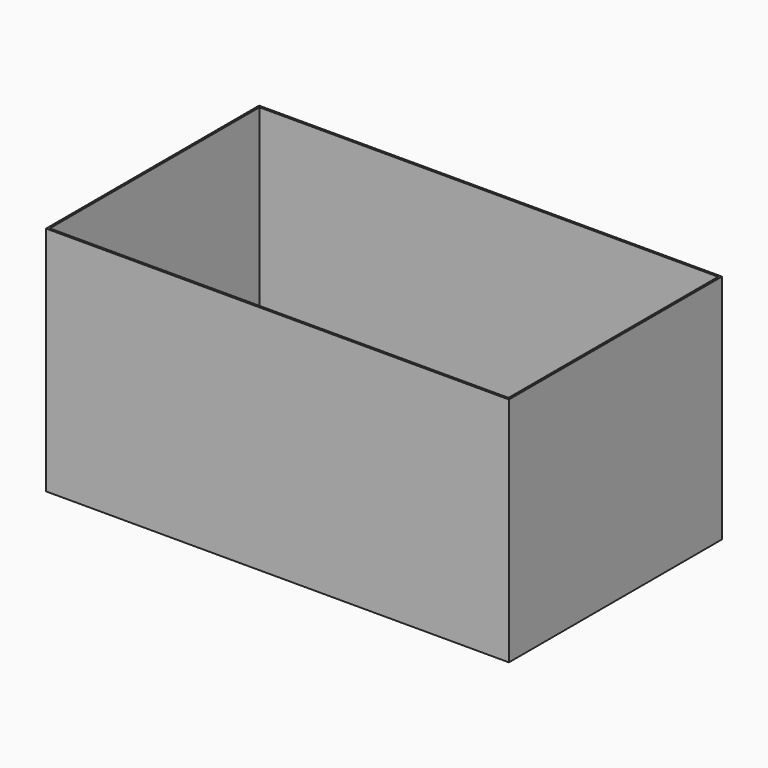
from build123d import *

# Parameters (mm, degrees)
F0_W     = 717.55
F0_H     = 412.75
F1_DEPTH = 358.775
F2_T     = -3.175
F3_W     = 406.4
F3_H     = 355.6
F4_DEPTH = 6.35
F5_W     = 279.4
F5_H     = 330.2
F6_DEPTH = 6.35


with BuildPart() as f1:
    # F0 (on Top) → F1 (new body)
    with BuildSketch(Plane.XY):
        Rectangle(F0_W, F0_H)
    extrude(amount=F1_DEPTH)

    # F2
    f2_openings = [f1.faces().sort_by_distance(p)[0] for p in [
        (0, 0, 358.775),
    ]]
    offset(amount=F2_T, openings=f2_openings)


with BuildPart() as f4:
    # F3 (on Top) → F4 (new body)
    with BuildSketch(Plane.XY):
        Rectangle(F3_W, F3_H)
    extrude(amount=F4_DEPTH)


with BuildPart() as f6:
    # F5 (on Top) → F6 (new body)
    with BuildSketch(Plane.XY):
        Rectangle(F5_W, F5_H)
    extrude(amount=F6_DEPTH)


solid = Compound([f1.part, f4.part, f6.part])
